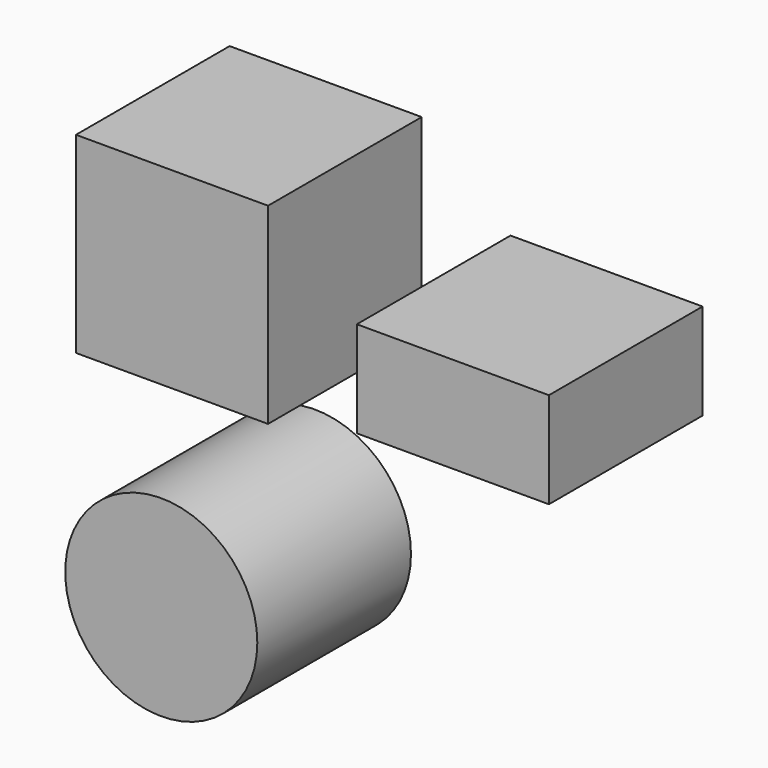
from build123d import *

# Parameters (mm, degrees)
F0_W     = 50.8
F0_H     = 50.8
F3_DEPTH = 50.8
F1_W     = 50.8
F1_H     = 25.4
F4_DEPTH = 50.8
F2_R     = 25.4
F5_DEPTH = 50.8


with BuildPart() as f3:
    # F0 (on Front) → F3 (new body)
    with BuildSketch(Plane.XZ):
        with Locations((-34.840092, 48.658716)):
            Rectangle(F0_W, F0_H)
    extrude(amount=F3_DEPTH)


with BuildPart() as f4:
    # F1 (on Front) → F4 (new body)
    with BuildSketch(Plane.XZ):
        with Locations((39.446117, 41.400529)):
            Rectangle(F1_W, F1_H)
    extrude(amount=F4_DEPTH)


with BuildPart() as f5:
    # F2 (on Front) → F5 (new body)
    with BuildSketch(Plane.XZ):
        with Locations((-37.679128, -28.608227)):
            Circle(F2_R)
    extrude(amount=F5_DEPTH)


solid = Compound([f3.part, f4.part, f5.part])
